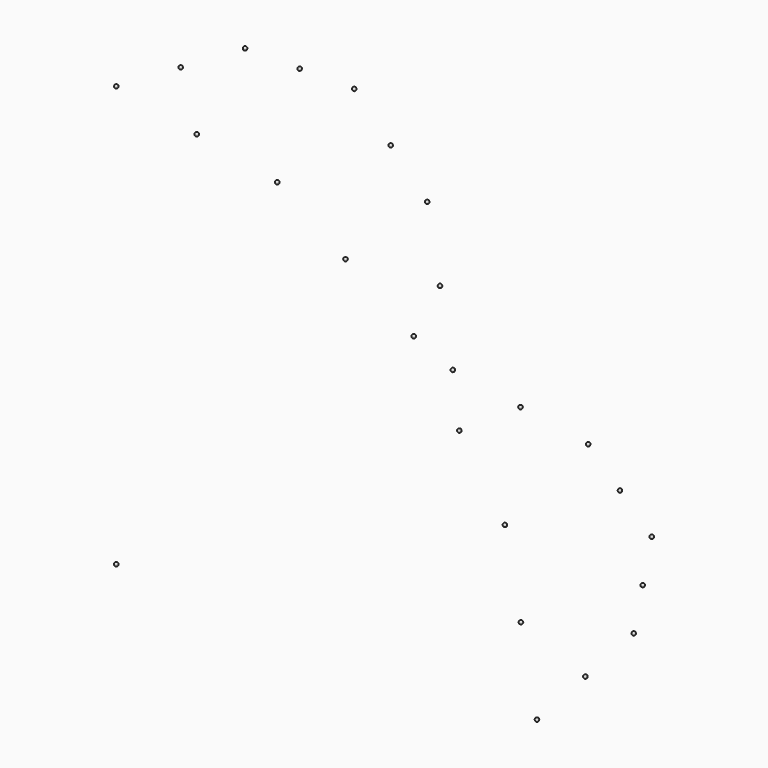
from build123d import *


with BuildPart() as sphere:
    # Sphere → Sphere (revolve)
    with BuildSketch(Plane(origin=(3500, 0, 0), x_dir=(1, 0, 0), z_dir=(0, -1, 0))):
        with BuildLine():
            ThreePointArc((0, -15), (15, 0), (0, 15))
            Line((0, 15), (0, -15))
        make_face()
    revolve(axis=Axis((3500, 0, 0), (0, 0, 1)))


with BuildPart() as sphere001:
    # Sphere001 → Sphere001 (revolve)
    with BuildSketch(Plane.XZ):
        with BuildLine():
            ThreePointArc((0, -15), (15, 0), (0, 15))
            Line((0, 15), (0, -15))
        make_face()
    revolve(axis=Axis((0, 0, 0), (0, 0, 1)))


with BuildPart() as sphere002:
    # Sphere002 → Sphere002 (revolve)
    with BuildSketch(Plane(origin=(0, 0, 3500), x_dir=(1, 0, 0), z_dir=(0, -1, 0))):
        with BuildLine():
            ThreePointArc((0, -15), (15, 0), (0, 15))
            Line((0, 15), (0, -15))
        make_face()
    revolve(axis=Axis((0, 0, 3500), (0, 0, 1)))


with BuildPart() as sphere003:
    # Sphere003 → Sphere003 (revolve)
    with BuildSketch(Plane(origin=(1339.392013, 0, 3233.578364), x_dir=(1, 0, 0), z_dir=(0, -1, 0))):
        with BuildLine():
            ThreePointArc((0, -15), (15, 0), (0, 15))
            Line((0, 15), (0, -15))
        make_face()
    revolve(axis=Axis((1339.392013, 0, 3233.578364), (0, 0, 1)))


with BuildPart() as sphere004:
    # Sphere004 → Sphere004 (revolve)
    with BuildSketch(Plane(origin=(2474.873734, 0, 2474.873734), x_dir=(1, 0, 0), z_dir=(0, -1, 0))):
        with BuildLine():
            ThreePointArc((0, -15), (15, 0), (0, 15))
            Line((0, 15), (0, -15))
        make_face()
    revolve(axis=Axis((2474.873734, 0, 2474.873734), (0, 0, 1)))


with BuildPart() as sphere005:
    # Sphere005 → Sphere005 (revolve)
    with BuildSketch(Plane(origin=(3233.578364, 0, 1339.392013), x_dir=(1, 0, 0), z_dir=(0, -1, 0))):
        with BuildLine():
            ThreePointArc((0, -15), (15, 0), (0, 15))
            Line((0, 15), (0, -15))
        make_face()
    revolve(axis=Axis((3233.578364, 0, 1339.392013), (0, 0, 1)))


with BuildPart() as sphere006:
    # Sphere006 → Sphere006 (revolve)
    with BuildSketch(Plane.XZ.offset(-3500)):
        with BuildLine():
            ThreePointArc((0, -15), (15, 0), (0, 15))
            Line((0, 15), (0, -15))
        make_face()
    revolve(axis=Axis((0, 3500, 0), (0, 0, 1)))


with BuildPart() as sphere007:
    # Sphere007 → Sphere007 (revolve)
    with BuildSketch(Plane(origin=(0, 3233.578364, 1339.392013), x_dir=(1, 0, 0), z_dir=(0, -1, 0))):
        with BuildLine():
            ThreePointArc((0, -15), (15, 0), (0, 15))
            Line((0, 15), (0, -15))
        make_face()
    revolve(axis=Axis((0, 3233.578364, 1339.392013), (0, 0, 1)))


with BuildPart() as sphere008:
    # Sphere008 → Sphere008 (revolve)
    with BuildSketch(Plane(origin=(0, 2474.873734, 2474.873734), x_dir=(1, 0, 0), z_dir=(0, -1, 0))):
        with BuildLine():
            ThreePointArc((0, -15), (15, 0), (0, 15))
            Line((0, 15), (0, -15))
        make_face()
    revolve(axis=Axis((0, 2474.873734, 2474.873734), (0, 0, 1)))


with BuildPart() as sphere009:
    # Sphere009 → Sphere009 (revolve)
    with BuildSketch(Plane(origin=(0, 1339.392013, 3233.578364), x_dir=(1, 0, 0), z_dir=(0, -1, 0))):
        with BuildLine():
            ThreePointArc((0, -15), (15, 0), (0, 15))
            Line((0, 15), (0, -15))
        make_face()
    revolve(axis=Axis((0, 1339.392013, 3233.578364), (0, 0, 1)))


with BuildPart() as sphere010:
    # Sphere010 → Sphere010 (revolve)
    with BuildSketch(Plane(origin=(1339.392013, 3233.578364, 0), x_dir=(1, 0, 0), z_dir=(0, -1, 0))):
        with BuildLine():
            ThreePointArc((0, -15), (15, 0), (0, 15))
            Line((0, 15), (0, -15))
        make_face()
    revolve(axis=Axis((1339.392013, 3233.578364, 0), (0, 0, 1)))


with BuildPart() as sphere011:
    # Sphere011 → Sphere011 (revolve)
    with BuildSketch(Plane(origin=(2474.873734, 2474.873734, 0), x_dir=(1, 0, 0), z_dir=(0, -1, 0))):
        with BuildLine():
            ThreePointArc((0, -15), (15, 0), (0, 15))
            Line((0, 15), (0, -15))
        make_face()
    revolve(axis=Axis((2474.873734, 2474.873734, 0), (0, 0, 1)))


with BuildPart() as sphere012:
    # Sphere012 → Sphere012 (revolve)
    with BuildSketch(Plane(origin=(3233.578364, 1339.392013, 0), x_dir=(1, 0, 0), z_dir=(0, -1, 0))):
        with BuildLine():
            ThreePointArc((0, -15), (15, 0), (0, 15))
            Line((0, 15), (0, -15))
        make_face()
    revolve(axis=Axis((3233.578364, 1339.392013, 0), (0, 0, 1)))


with BuildPart() as sphere013:
    # Sphere013 → Sphere013 (revolve)
    with BuildSketch(Plane(origin=(3366.789182, 669.696007, 0), x_dir=(1, 0, 0), z_dir=(0, -1, 0))):
        with BuildLine():
            ThreePointArc((0, -15), (15, 0), (0, 15))
            Line((0, 15), (0, -15))
        make_face()
    revolve(axis=Axis((3366.789182, 669.696007, 0), (0, 0, 1)))


with BuildPart() as sphere014:
    # Sphere014 → Sphere014 (revolve)
    with BuildSketch(Plane(origin=(2854.226049, 1907.132874, 0), x_dir=(1, 0, 0), z_dir=(0, -1, 0))):
        with BuildLine():
            ThreePointArc((0, -15), (15, 0), (0, 15))
            Line((0, 15), (0, -15))
        make_face()
    revolve(axis=Axis((2854.226049, 1907.132874, 0), (0, 0, 1)))


with BuildPart() as sphere015:
    # Sphere015 → Sphere015 (revolve)
    with BuildSketch(Plane(origin=(1907.132874, 2854.226049, 0), x_dir=(1, 0, 0), z_dir=(0, -1, 0))):
        with BuildLine():
            ThreePointArc((0, -15), (15, 0), (0, 15))
            Line((0, 15), (0, -15))
        make_face()
    revolve(axis=Axis((1907.132874, 2854.226049, 0), (0, 0, 1)))


with BuildPart() as sphere016:
    # Sphere016 → Sphere016 (revolve)
    with BuildSketch(Plane(origin=(669.696007, 3366.789182, 0), x_dir=(1, 0, 0), z_dir=(0, -1, 0))):
        with BuildLine():
            ThreePointArc((0, -15), (15, 0), (0, 15))
            Line((0, 15), (0, -15))
        make_face()
    revolve(axis=Axis((669.696007, 3366.789182, 0), (0, 0, 1)))


with BuildPart() as sphere017:
    # Sphere017 → Sphere017 (revolve)
    with BuildSketch(Plane(origin=(0, 3366.789182, 669.696007), x_dir=(1, 0, 0), z_dir=(0, -1, 0))):
        with BuildLine():
            ThreePointArc((0, -15), (15, 0), (0, 15))
            Line((0, 15), (0, -15))
        make_face()
    revolve(axis=Axis((0, 3366.789182, 669.696007), (0, 0, 1)))


with BuildPart() as sphere018:
    # Sphere018 → Sphere018 (revolve)
    with BuildSketch(Plane(origin=(0, 2854.226049, 1907.132874), x_dir=(1, 0, 0), z_dir=(0, -1, 0))):
        with BuildLine():
            ThreePointArc((0, -15), (15, 0), (0, 15))
            Line((0, 15), (0, -15))
        make_face()
    revolve(axis=Axis((0, 2854.226049, 1907.132874), (0, 0, 1)))


with BuildPart() as sphere019:
    # Sphere019 → Sphere019 (revolve)
    with BuildSketch(Plane(origin=(0, 1907.132874, 2854.226049), x_dir=(1, 0, 0), z_dir=(0, -1, 0))):
        with BuildLine():
            ThreePointArc((0, -15), (15, 0), (0, 15))
            Line((0, 15), (0, -15))
        make_face()
    revolve(axis=Axis((0, 1907.132874, 2854.226049), (0, 0, 1)))


with BuildPart() as sphere020:
    # Sphere020 → Sphere020 (revolve)
    with BuildSketch(Plane(origin=(0, 669.696007, 3366.789182), x_dir=(1, 0, 0), z_dir=(0, -1, 0))):
        with BuildLine():
            ThreePointArc((0, -15), (15, 0), (0, 15))
            Line((0, 15), (0, -15))
        make_face()
    revolve(axis=Axis((0, 669.696007, 3366.789182), (0, 0, 1)))


with BuildPart() as sphere021:
    # Sphere021 → Sphere021 (revolve)
    with BuildSketch(Plane(origin=(669.696007, 0, 3366.789182), x_dir=(1, 0, 0), z_dir=(0, -1, 0))):
        with BuildLine():
            ThreePointArc((0, -15), (15, 0), (0, 15))
            Line((0, 15), (0, -15))
        make_face()
    revolve(axis=Axis((669.696007, 0, 3366.789182), (0, 0, 1)))


with BuildPart() as sphere022:
    # Sphere022 → Sphere022 (revolve)
    with BuildSketch(Plane(origin=(1907.132874, 0, 2854.226049), x_dir=(1, 0, 0), z_dir=(0, -1, 0))):
        with BuildLine():
            ThreePointArc((0, -15), (15, 0), (0, 15))
            Line((0, 15), (0, -15))
        make_face()
    revolve(axis=Axis((1907.132874, 0, 2854.226049), (0, 0, 1)))


with BuildPart() as sphere023:
    # Sphere023 → Sphere023 (revolve)
    with BuildSketch(Plane(origin=(2854.226049, 0, 1907.132874), x_dir=(1, 0, 0), z_dir=(0, -1, 0))):
        with BuildLine():
            ThreePointArc((0, -15), (15, 0), (0, 15))
            Line((0, 15), (0, -15))
        make_face()
    revolve(axis=Axis((2854.226049, 0, 1907.132874), (0, 0, 1)))


with BuildPart() as sphere024:
    # Sphere024 → Sphere024 (revolve)
    with BuildSketch(Plane(origin=(3366.789182, 0, 669.696007), x_dir=(1, 0, 0), z_dir=(0, -1, 0))):
        with BuildLine():
            ThreePointArc((0, -15), (15, 0), (0, 15))
            Line((0, 15), (0, -15))
        make_face()
    revolve(axis=Axis((3366.789182, 0, 669.696007), (0, 0, 1)))


solid = Compound([sphere.part, sphere001.part, sphere002.part, sphere003.part, sphere004.part, sphere005.part, sphere006.part, sphere007.part, sphere008.part, sphere009.part, sphere010.part, sphere011.part, sphere012.part, sphere013.part, sphere014.part, sphere015.part, sphere016.part, sphere017.part, sphere018.part, sphere019.part, sphere020.part, sphere021.part, sphere022.part, sphere023.part, sphere024.part])
